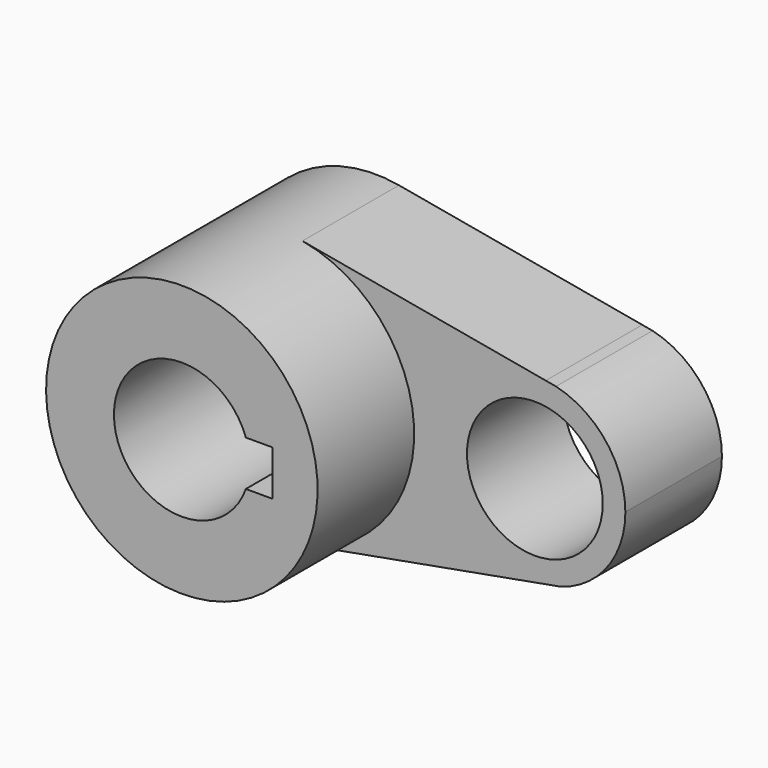
from build123d import *

# Parameters (mm, degrees)
F0_R     = 14.2875
F1_DEPTH = 25.4
F2_DEPTH = 50.8


with BuildPart() as f1:
    # F0 (on Front) → F1 (new body)
    with BuildSketch(Plane.XZ):
        with BuildLine():
            ThreePointArc((5.1066451383, -28.1149924494), (21.9368754592, -18.3113112607), (28.575, 0))
            ThreePointArc((28.575, 0), (21.9214704761, 18.3297506029), (5.059356454, 28.1235406247))
            ThreePointArc((5.059356454, 28.1235406247), (-28.5749898981, -0.0240275413), (5.1066451383, -28.1149924494))
        make_face()
        with BuildLine():
            ThreePointArc((-13.4703841816, 4.7625), (0, 14.2875), (13.4703841816, 4.7625))
            Line((13.4703841816, 4.7625), (19.05, 4.7625))
            Line((19.05, 4.7625), (19.05, -4.7625))
            Line((19.05, -4.7625), (13.4703841816, -4.7625))
            ThreePointArc((13.4703841816, -4.7625), (0, -14.2875), (-13.4703841816, -4.7625))
            Line((-13.4703841816, -4.7625), (-19.05, -4.7625))
            Line((-19.05, -4.7625), (-19.05, 4.7625))
            Line((-19.05, 4.7625), (-13.4703841816, 4.7625))
        make_face(mode=Mode.SUBTRACT)
        with BuildLine():
            ThreePointArc((5.059356454, 28.1235406247), (21.9214704761, 18.3297506029), (28.575, 0))
            ThreePointArc((28.575, 0), (21.9368754592, -18.3113112607), (5.1066451383, -28.1149924494))
            Line((5.1066451383, -28.1149924494), (55.2496314222, -19.0073095081))
            ThreePointArc((55.2496314222, -19.0073095081), (34.931805633, 0.5091643163), (56.2634938979, 18.9120410236))
            Line((56.2634938979, 18.9120410236), (5.059356454, 28.1235406247))
        make_face()
        with BuildLine():
            Line((58.4211381983, 18.5238860697), (56.2634938979, 18.9120410236))
            ThreePointArc((56.2634938979, 18.9120410236), (34.931805633, 0.5091643163), (55.2496314222, -19.0073095081))
            Line((55.2496314222, -19.0073095081), (59.4660218939, -18.2414686514))
            ThreePointArc((59.4660218939, -18.2414686514), (69.2639905991, -11.3643858814), (73.025, 0))
            ThreePointArc((73.025, 0), (68.9349704658, 11.7941419214), (58.4211381983, 18.5238860697))
        make_face()
        with Locations((53.975, 0)):
            Circle(F0_R, mode=Mode.SUBTRACT)
        with BuildLine():
            ThreePointArc((-13.4703841816, -4.7625), (-14.2875, 0), (-13.4703841816, 4.7625))
            Line((-13.4703841816, 4.7625), (-19.05, 4.7625))
            Line((-19.05, 4.7625), (-19.05, -4.7625))
            Line((-19.05, -4.7625), (-13.4703841816, -4.7625))
        make_face()
    extrude(amount=F1_DEPTH)

    # F0 (on Front) → F2 (join)
    with BuildSketch(Plane.XZ):
        with BuildLine():
            ThreePointArc((5.1066451383, -28.1149924494), (21.9368754592, -18.3113112607), (28.575, 0))
            ThreePointArc((28.575, 0), (21.9214704761, 18.3297506029), (5.059356454, 28.1235406247))
            ThreePointArc((5.059356454, 28.1235406247), (-28.5749898981, -0.0240275413), (5.1066451383, -28.1149924494))
        make_face()
        with BuildLine():
            ThreePointArc((-13.4703841816, 4.7625), (0, 14.2875), (13.4703841816, 4.7625))
            Line((13.4703841816, 4.7625), (19.05, 4.7625))
            Line((19.05, 4.7625), (19.05, -4.7625))
            Line((19.05, -4.7625), (13.4703841816, -4.7625))
            ThreePointArc((13.4703841816, -4.7625), (0, -14.2875), (-13.4703841816, -4.7625))
            Line((-13.4703841816, -4.7625), (-19.05, -4.7625))
            Line((-19.05, -4.7625), (-19.05, 4.7625))
            Line((-19.05, 4.7625), (-13.4703841816, 4.7625))
        make_face(mode=Mode.SUBTRACT)
        with BuildLine():
            ThreePointArc((-13.4703841816, -4.7625), (-14.2875, 0), (-13.4703841816, 4.7625))
            Line((-13.4703841816, 4.7625), (-19.05, 4.7625))
            Line((-19.05, 4.7625), (-19.05, -4.7625))
            Line((-19.05, -4.7625), (-13.4703841816, -4.7625))
        make_face()
    extrude(amount=F2_DEPTH)


solid = f1.part
